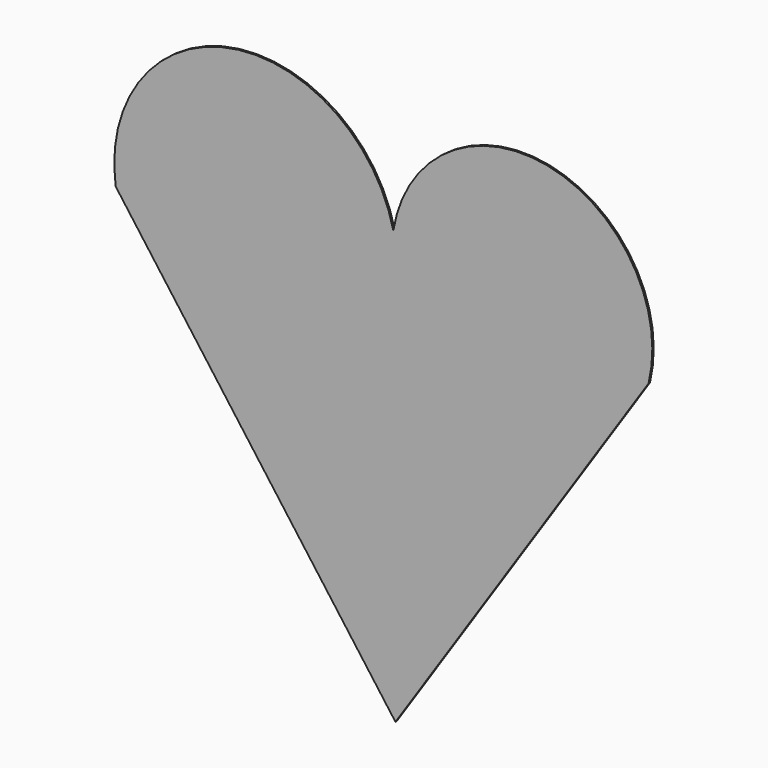
from build123d import *

# Parameters (mm, degrees)
F1_DEPTH = 0.254


with BuildPart() as f1:
    # F0 (on Front) → F1 (new body)
    with BuildSketch(Plane.XZ):
        with BuildLine():
            Line((-41.1312133074, 0), (0, -55.9188649058))
            Line((0, -55.9188649058), (37.2139550745, 0))
            ThreePointArc((37.2139550745, 0), (22.3954676377, 23.3401834658), (-0.312886779, 7.57051721))
            ThreePointArc((-0.312886779, 7.57051721), (-24.3540967541, 23.3683418342), (-41.1312133074, 0))
        make_face()
        with BuildLine():
            ThreePointArc((0, 0), (-0.5344473727, 3.7696358351), (-0.312886779, 7.57051721))
            ThreePointArc((-0.312886779, 7.57051721), (0.1916120389, 3.7996436118), (0, 0))
        make_face(mode=Mode.SUBTRACT)
        with BuildLine():
            ThreePointArc((0, 0), (0.1916120389, 3.7996436118), (-0.312886779, 7.57051721))
            ThreePointArc((-0.312886779, 7.57051721), (-0.5344473727, 3.7696358351), (0, 0))
        make_face()
    extrude(amount=F1_DEPTH)


solid = f1.part
